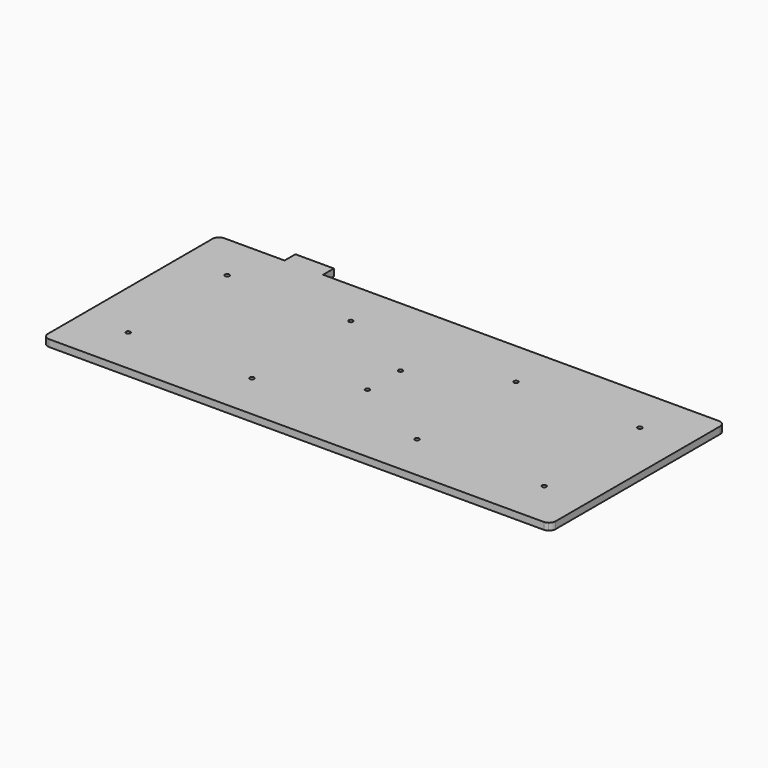
from build123d import *

# Parameters (mm, degrees)
F1_DEPTH = 3.2
F2_R     = 1
F3_DEPTH = 3.2


with BuildPart() as f1:
    # F0 (on Top) → F1 (new body)
    with BuildSketch(Plane.XY):
        with BuildLine():
            ThreePointArc((-115.903488, 49.952005), (-116.838218, 48.881038), (-117.175, 47.5))
            Line((-117.175, 47.5), (-117.175, -47.5))
            ThreePointArc((-117.175, -47.5), (-116.29632, -49.62132), (-114.175, -50.5))
            Line((-114.175, -50.5), (114.175, -50.5))
            ThreePointArc((114.175, -50.5), (115.081638, -50.359722), (115.903488, -49.952005))
            Line((115.903488, -49.952005), (0, 0))
            Line((0, 0), (-115.903488, 49.952005))
        make_face()
        with BuildLine():
            ThreePointArc((-114.175, 50.5), (-115.081638, 50.359722), (-115.903488, 49.952005))
            Line((-115.903488, 49.952005), (0, 0))
            Line((0, 0), (115.903488, -49.952005))
            ThreePointArc((115.903488, -49.952005), (116.838218, -48.881038), (117.175, -47.5))
            Line((117.175, -47.5), (117.175, 47.5))
            ThreePointArc((117.175, 47.5), (116.29632, 49.62132), (114.175, 50.5))
            Line((114.175, 50.5), (-68.531, 50.5))
            Line((-68.531, 50.5), (-68.531, 56.75))
            Line((-68.531, 56.75), (-86.311, 56.75))
            Line((-86.311, 56.75), (-86.311, 50.5))
            Line((-86.311, 50.5), (-114.175, 50.5))
        make_face()
    extrude(amount=F1_DEPTH)

    # F2 (on face) → F3 (cut)
    with BuildSketch(Plane.XY.offset(3.2)):
        with Locations((96.832131, -28.57509)):
            Circle(F2_R)
        with Locations((95.25071, 28.57509)):
            Circle(F2_R)
        with BuildLine():
            ThreePointArc((37.205863, -28.127877), (37.870537, -29.548339), (39.10029, -28.57509))
            ThreePointArc((39.10029, -28.57509), (38.330043, -27.601841), (37.205863, -28.127877))
        make_face()
        with BuildLine():
            ThreePointArc((-37.10029, -28.57509), (-37.127041, -28.345337), (-37.205863, -28.127877))
            ThreePointArc((-37.205863, -28.127877), (-39.073539, -28.804843), (-37.10029, -28.57509))
        make_face()
        with BuildLine():
            ThreePointArc((-37.10029, 28.57509), (-39.073539, 28.804843), (-37.205863, 28.127877))
            ThreePointArc((-37.205863, 28.127877), (-37.127041, 28.345337), (-37.10029, 28.57509))
        make_face()
        with BuildLine():
            ThreePointArc((39.10029, 28.57509), (37.870537, 29.548339), (37.205863, 28.127877))
            ThreePointArc((37.205863, 28.127877), (38.330043, 27.601841), (39.10029, 28.57509))
        make_face()
        with BuildLine():
            ThreePointArc((-0.894427, 9.972183), (-0.850651, 8.999239), (0, 8.52497))
            Line((0, 8.52497), (0, 9.52497))
            Line((0, 9.52497), (-0.894427, 9.972183))
        make_face()
        with BuildLine():
            Line((0, 9.52497), (0, 8.52497))
            ThreePointArc((0, 8.52497), (0.707107, 8.817863), (1, 9.52497))
            ThreePointArc((1, 9.52497), (0.973249, 9.754723), (0.894427, 9.972183))
            Line((0.894427, 9.972183), (0, 9.52497))
        make_face()
        with BuildLine():
            ThreePointArc((-0.894427, -9.972183), (0, -10.52497), (0.894427, -9.972183))
            Line((0.894427, -9.972183), (0, -9.52497))
            Line((0, -9.52497), (-0.894427, -9.972183))
        make_face()
        with BuildLine():
            Line((0, -9.52497), (0.894427, -9.972183))
            ThreePointArc((0.894427, -9.972183), (0.973249, -9.754723), (1, -9.52497))
            ThreePointArc((1, -9.52497), (0.707107, -8.817863), (0, -8.52497))
            Line((0, -8.52497), (0, -9.52497))
        make_face()
        with BuildLine():
            ThreePointArc((0, -8.52497), (-0.850651, -8.999239), (-0.894427, -9.972183))
            Line((-0.894427, -9.972183), (0, -9.52497))
            Line((0, -9.52497), (0, -8.52497))
        make_face()
        with BuildLine():
            ThreePointArc((0.894427, 9.972183), (0, 10.52497), (-0.894427, 9.972183))
            Line((-0.894427, 9.972183), (0, 9.52497))
            Line((0, 9.52497), (0.894427, 9.972183))
        make_face()
        with Locations((-95.24909, -28.57509)):
            Circle(F2_R)
        with Locations((-95.24909, 28.57509)):
            Circle(F2_R)
    extrude(amount=-F3_DEPTH, mode=Mode.SUBTRACT)


solid = f1.part
